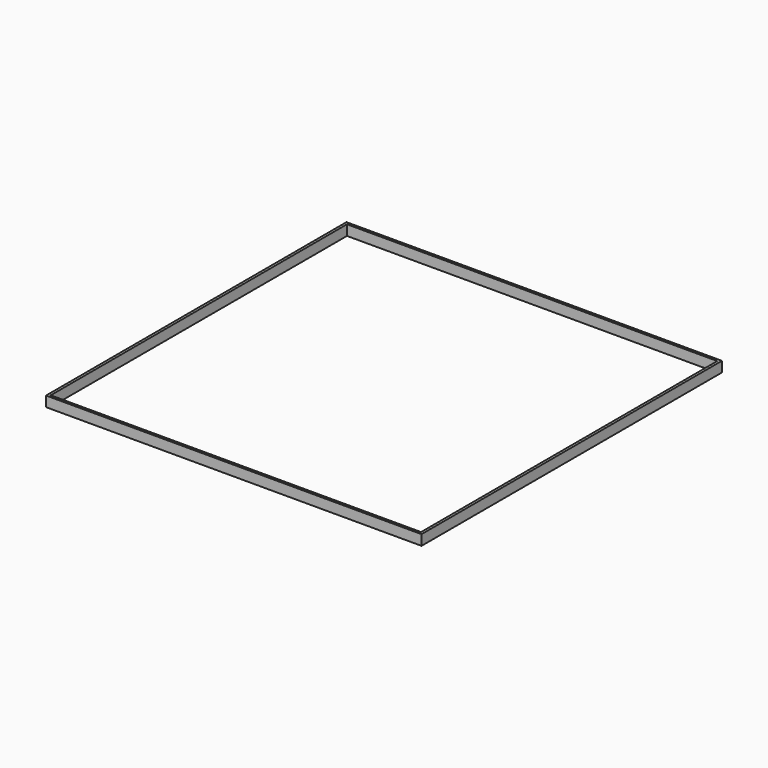
from build123d import *

# Parameters (mm, degrees)
BOX065_W     = 360
BOX065_H     = 360
BOX065_DEPTH = 10
BOX064_W     = 365
BOX064_H     = 365
BOX064_DEPTH = 10


with BuildPart() as cube001:
    # Box065 → Box065 (new body)
    with BuildSketch(Plane(origin=(2.5, 2.5, 0), x_dir=(1, 0, 0), z_dir=(0, 0, 1))):
        with Locations((180, 180)):
            Rectangle(BOX065_W, BOX065_H)
    extrude(amount=BOX065_DEPTH)


with BuildPart() as cut:
    # Box064 → Box064 (new body)
    with BuildSketch(Plane.XY):
        with Locations((182.5, 182.5)):
            Rectangle(BOX064_W, BOX064_H)
    extrude(amount=BOX064_DEPTH)

    # Cut: cut Cube001
    add(cube001.part, mode=Mode.SUBTRACT)


with BuildPart() as cut_1:
    # Cut placement: moved
    add(cut.part.moved(Location((-2.5, -2.5, 0))))


solid = cut_1.part
